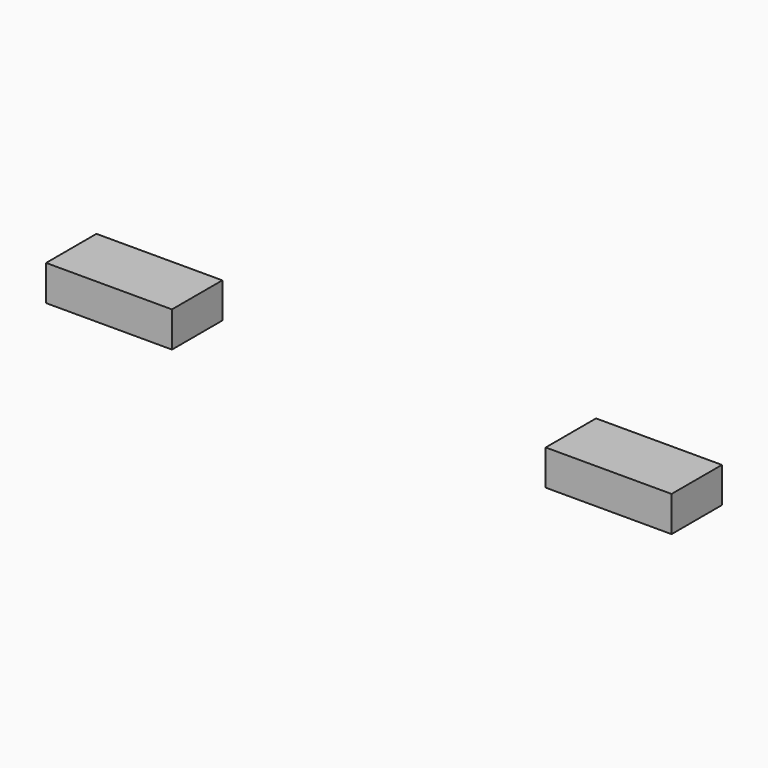
from build123d import *

# Parameters (mm, degrees)
BOX022_W     = 8
BOX022_H     = 16
BOX022_DEPTH = 4.5
BOX021_W     = 8
BOX021_H     = 16
BOX021_DEPTH = 4.5


with BuildPart() as cube021:
    # Box022 → Box022 (new body)
    with BuildSketch(Plane(origin=(-0.75, 24, -4.5), x_dir=(0, -1, 0), z_dir=(0, 0, 1))):
        with Locations((4, 8)):
            Rectangle(BOX022_W, BOX022_H)
    extrude(amount=BOX022_DEPTH)


with BuildPart() as obj1:
    # Box021 → Box021 (new body)
    with BuildSketch(Plane(origin=(62.75, 24, -4.5), x_dir=(0, -1, 0), z_dir=(0, 0, 1))):
        with Locations((4, 8)):
            Rectangle(BOX021_W, BOX021_H)
    extrude(amount=BOX021_DEPTH)

    # Fusion042: union Cube021
    add(cube021.part)


solid = obj1.part
